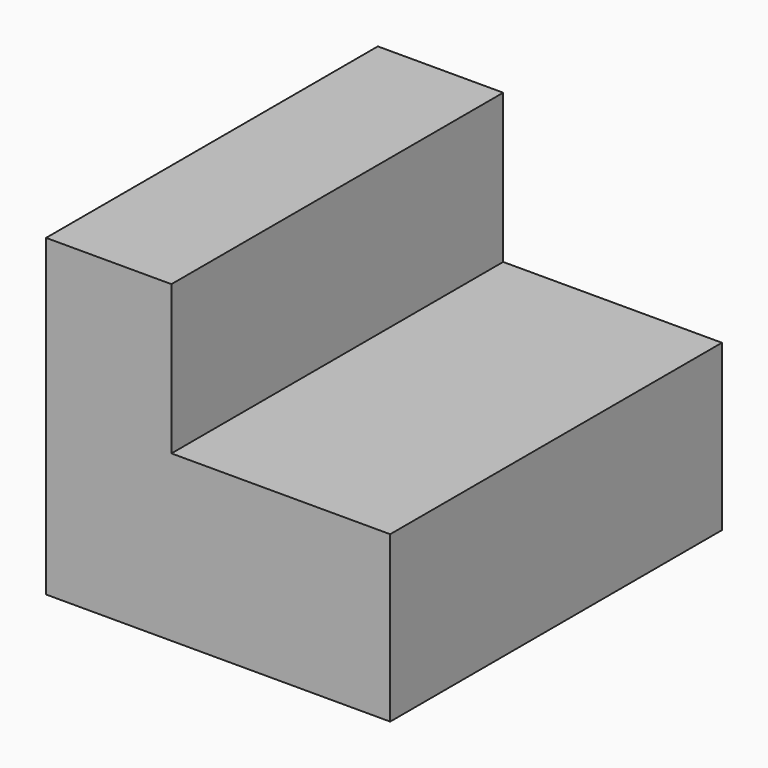
from build123d import *

# Parameters (mm, degrees)
F0_W     = 105.3846
F0_H     = 96.1644
F1_DEPTH = 127
F2_W     = 66.9902929224
F2_H     = 45.6339136045
F3_DEPTH = 155.194


with BuildPart() as f1:
    # F0 (on Front) → F1 (new body)
    with BuildSketch(Plane.XZ):
        Rectangle(F0_W, F0_H)
    extrude(amount=F1_DEPTH)

    # F2 (on face) → F3 (cut, symmetric)
    with BuildSketch(Plane.XZ.offset(127)):
        with Locations((19.1971535388, 25.2652431978)):
            Rectangle(F2_W, F2_H)
    extrude(amount=F3_DEPTH, both=True, mode=Mode.SUBTRACT)


solid = f1.part
